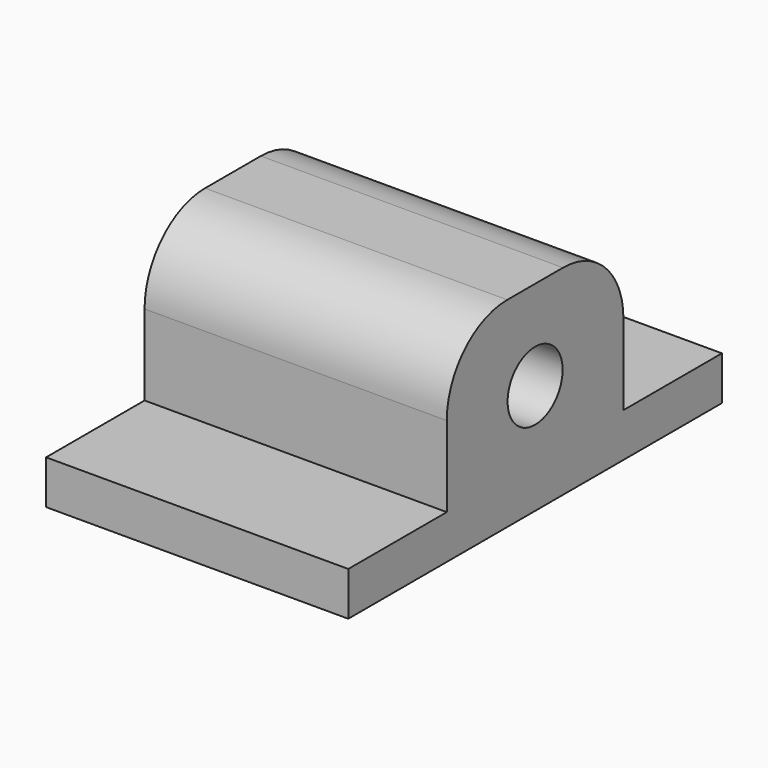
from build123d import *

# Parameters (mm, degrees)
F1_DEPTH = 20
F3_D     = 4.55
F4_R     = 5


with BuildPart() as f1:
    # F0 (on Right) → F1 (new body)
    with BuildSketch(Plane.YZ):
        Polygon((-15.453118, 0), (0, 0), (0, 13.234019), (-7.305924, 13.234019), (-7.305924, 2.900996), (-15.453118, 2.900996), align=None)
        Polygon((0, 13.234019), (0, 0), (15.453118, 0), (15.453118, 2.900996), (7.305924, 2.900996), (7.305924, 13.234019), align=None)
    extrude(amount=F1_DEPTH)

    # F3 (through all)
    with Locations(Plane.YZ.offset(20)):
        with Locations((0, 7.294424)):
            Hole(F3_D / 2)

    # F4
    f4_edges = [f1.edges().sort_by_distance(p)[0] for p in [
        (10, 7.305924, 13.234019),
        (10, -7.305924, 13.234019),
    ]]
    fillet(f4_edges, radius=F4_R)


solid = f1.part
